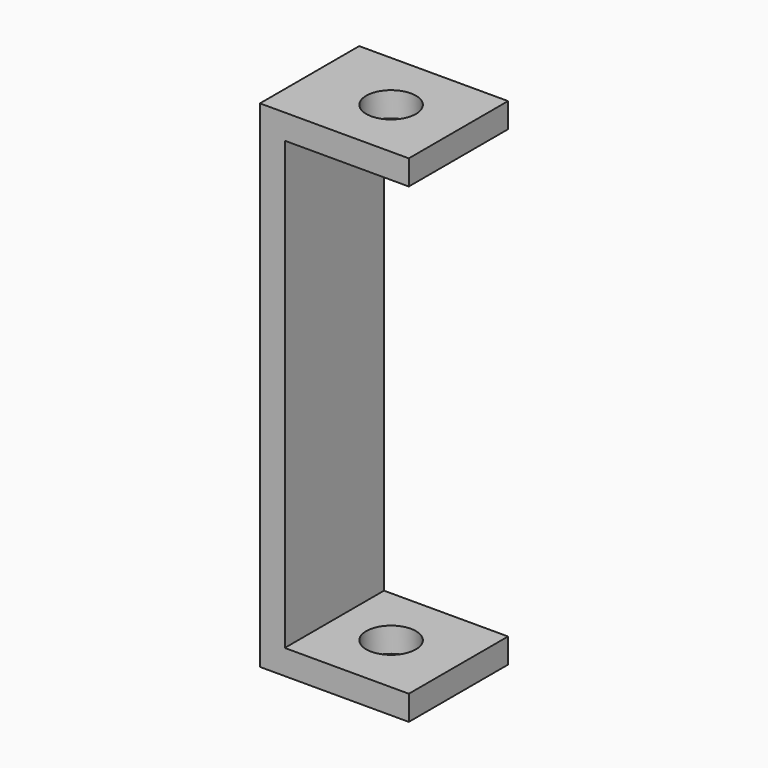
from build123d import *

# Parameters (mm, degrees)
F0_W     = 31.75
F0_H     = 6.35
F1_DEPTH = 15.875
F2_R     = 6.35
F3_DEPTH = 127


with BuildPart() as f1:
    # F0 (on Front) → F1 (new body, symmetric)
    with BuildSketch(Plane.XZ):
        with Locations((19.05, -60.325)):
            Rectangle(F0_W, F0_H)
        Polygon((3.175, 63.5), (-3.175, 63.5), (-3.175, -63.5), (3.175, -63.5), (3.175, -57.15), (3.175, 57.15), align=None)
        with Locations((19.05, 60.325)):
            Rectangle(F0_W, F0_H)
    extrude(amount=F1_DEPTH, both=True)

    # F2 (on Top) → F3 (cut, symmetric)
    with BuildSketch(Plane.XY):
        with Locations((17.689286, 0)):
            Circle(F2_R)
    extrude(amount=F3_DEPTH, both=True, mode=Mode.SUBTRACT)


solid = f1.part
